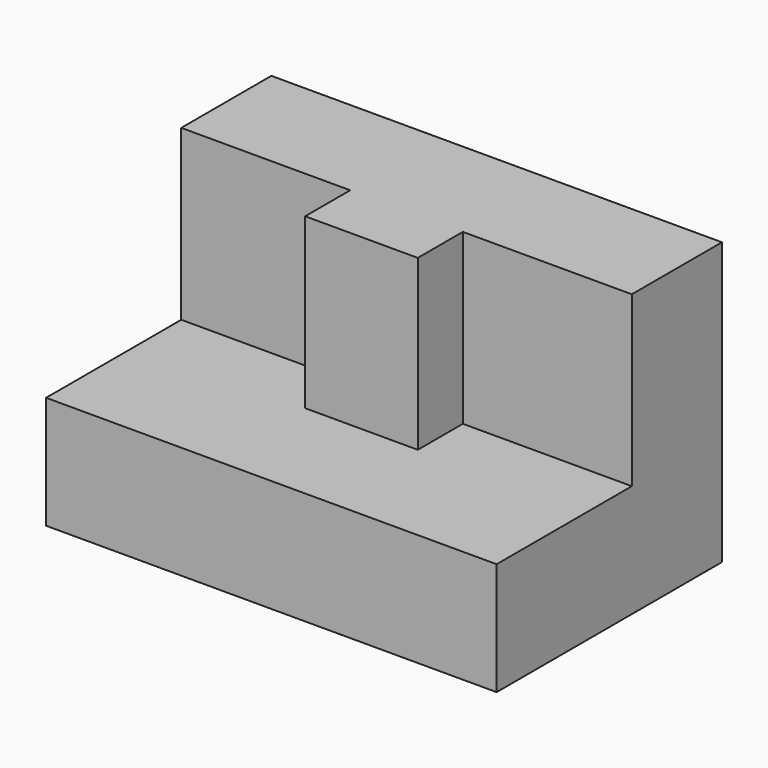
from build123d import *

# Parameters (mm, degrees)
F0_W     = 50.8
F0_H     = 31.75
F1_DEPTH = 31.75
F2_W     = 19.05
F2_H     = 19.05
F3_DEPTH = 19.05
F4_W     = 19.05
F4_H     = 19.05
F5_DEPTH = 19.05
F6_W     = 12.7
F6_H     = 19.05
F7_DEPTH = 12.7


with BuildPart() as f1:
    # F0 (on Front) → F1 (new body)
    with BuildSketch(Plane.XZ):
        with Locations((34.053563, 18.300161)):
            Rectangle(F0_W, F0_H)
    extrude(amount=F1_DEPTH)

    # F2 (on face) → F3 (cut)
    with BuildSketch(Plane.XZ.offset(31.75)):
        with Locations((18.178563, 24.650161)):
            Rectangle(F2_W, F2_H)
    extrude(amount=-F3_DEPTH, mode=Mode.SUBTRACT)

    # F4 (on face) → F5 (cut)
    with BuildSketch(Plane.XZ.offset(31.75)):
        with Locations((49.928563, 24.650161)):
            Rectangle(F4_W, F4_H)
    extrude(amount=-F5_DEPTH, mode=Mode.SUBTRACT)

    # F6 (on face) → F7 (cut)
    with BuildSketch(Plane.XZ.offset(31.75)):
        with Locations((34.053563, 24.650161)):
            Rectangle(F6_W, F6_H)
    extrude(amount=-F7_DEPTH, mode=Mode.SUBTRACT)


solid = f1.part
